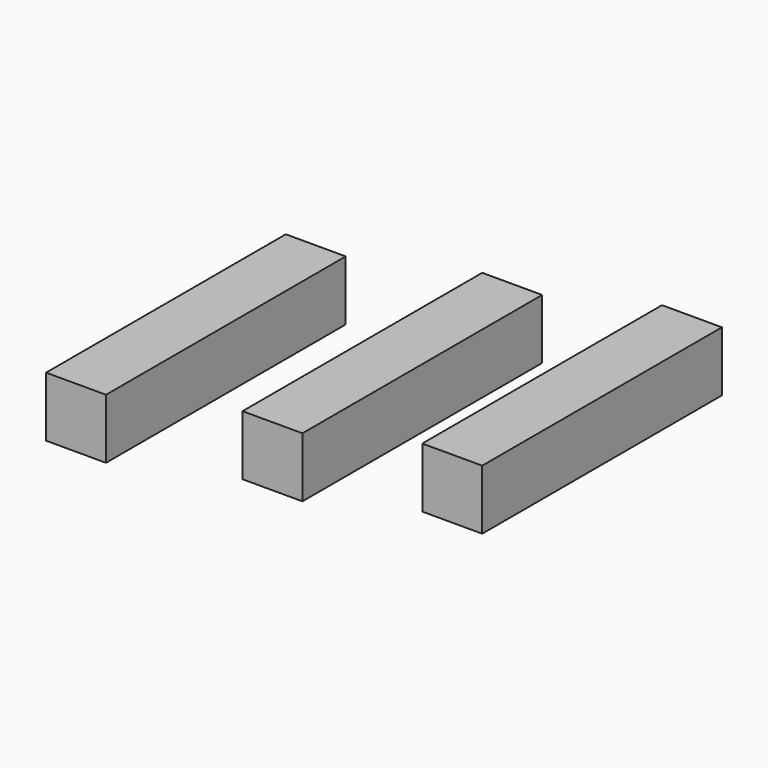
from build123d import *

# Parameters (mm, degrees)
F0_W     = 25.4
F0_H     = 25.4
F1_DEPTH = 127


with BuildPart() as f1:
    # F0 (on Front) → F1 (new body)
    with BuildSketch(Plane.XZ):
        with Locations((-55.588986, 12.7)):
            Rectangle(F0_W, F0_H)
        Polygon((14.965562, 38.1), (14.965562, 12.7), (40.365562, 12.7), (40.365562, 25.4), (40.365562, 38.1), align=None)
        with Locations((103.865562, 38.1)):
            Rectangle(F0_W, F0_H)
    extrude(amount=F1_DEPTH)


solid = f1.part
